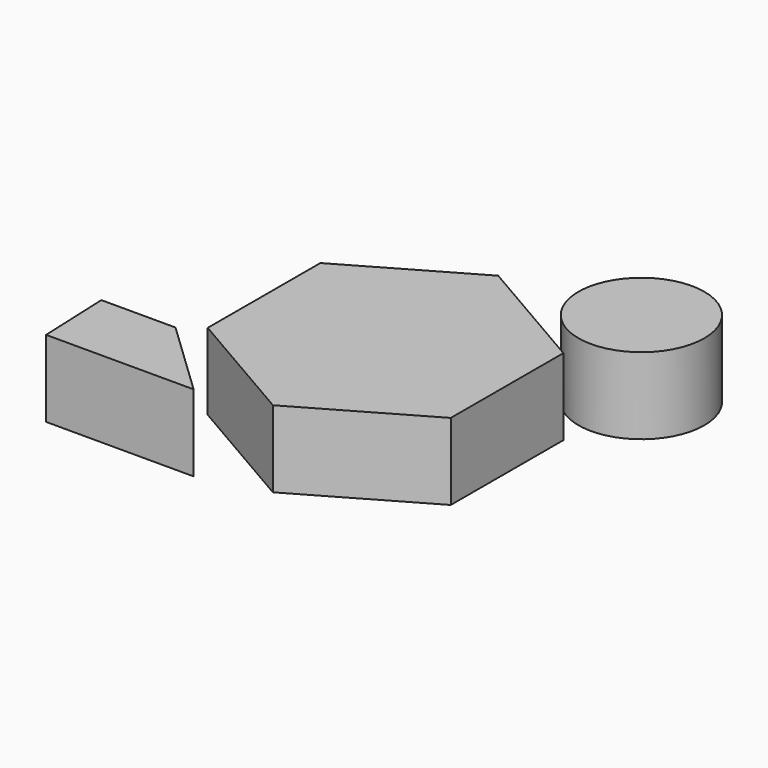
from build123d import *

# Parameters (mm, degrees)
F1_DEPTH = 25.4
F2_R     = 20.870042
F3_DEPTH = 25.4
F5_DEPTH = 25.4


with BuildPart() as f1:
    # F0 (on Top) → F1 (new body)
    with BuildSketch(Plane.XY):
        Polygon((0.079192, 46.56136), (-40.283725, 23.349263), (-40.362917, -23.212098), (-0.079192, -46.56136), (40.283725, -23.349263), (40.362917, 23.212098), align=None)
    extrude(amount=F1_DEPTH)


with BuildPart() as f3:
    # F2 (on Top) → F3 (new body)
    with BuildSketch(Plane.XY):
        with Locations((42.773843, 52.51253)):
            Circle(F2_R)
    extrude(amount=F3_DEPTH)


with BuildPart() as f5:
    # F4 (on Top) → F5 (new body)
    with BuildSketch(Plane.XY):
        Polygon((-46.992816, -28.279468), (-71.570434, -28.279468), (-70.563495, -52.417614), (-21.662729, -52.417614), align=None)
    extrude(amount=F5_DEPTH)


solid = Compound([f1.part, f3.part, f5.part])
